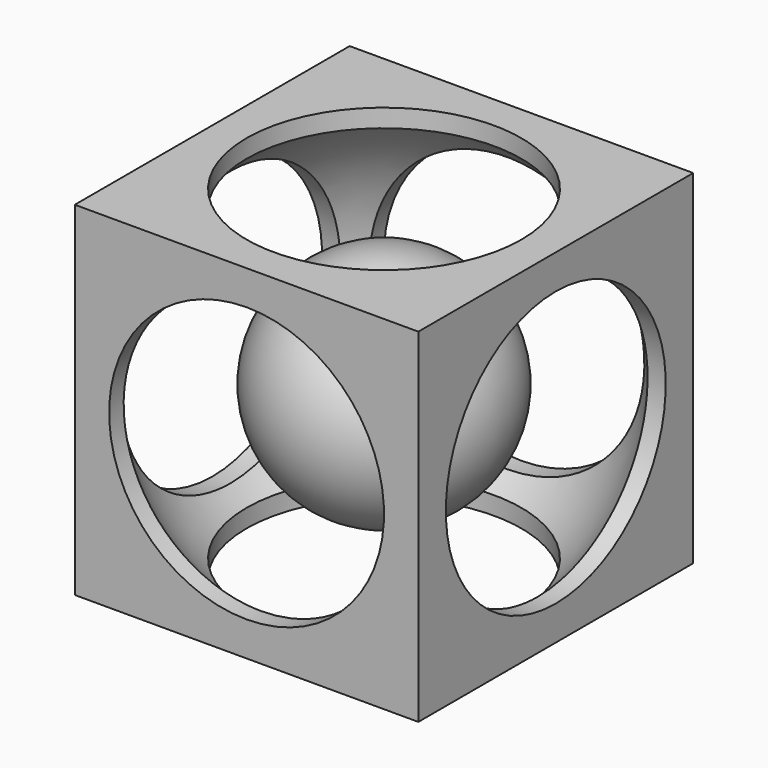
from build123d import *

# Parameters (mm, degrees)
CYLINDER001_R     = 12
CYLINDER001_DEPTH = 36
CYLINDER002_R     = 12
CYLINDER002_DEPTH = 36
CYLINDER_R        = 12
CYLINDER_DEPTH    = 36
BOX_W             = 30
BOX_H             = 30
BOX_DEPTH         = 30


with BuildPart() as obj1:
    # Sphere → Sphere (revolve)
    with BuildSketch(Plane(origin=(15, 15, 15), x_dir=(1, 0, 0), z_dir=(0, -1, 0))):
        with BuildLine():
            ThreePointArc((0, -18), (18, 0), (0, 18))
            Line((0, 18), (0, -18))
        make_face()
    revolve(axis=Axis((15, 15, 15), (0, 0, 1)))


with BuildPart() as cylinder001:
    # Cylinder001 → Cylinder001 (new body)
    with BuildSketch(Plane(origin=(15, 33, 15), x_dir=(0, 0, -1), z_dir=(0, -1, 0))):
        Circle(CYLINDER001_R)
    extrude(amount=CYLINDER001_DEPTH)


with BuildPart() as cylinder002:
    # Cylinder002 → Cylinder002 (new body)
    with BuildSketch(Plane(origin=(15, 15, 33), x_dir=(1, 0, 0), z_dir=(0, 0, -1))):
        Circle(CYLINDER002_R)
    extrude(amount=CYLINDER002_DEPTH)


with BuildPart() as obj2:
    # Cylinder → Cylinder (new body)
    with BuildSketch(Plane(origin=(-3, 15, 15), x_dir=(0, 0, -1), z_dir=(1, 0, 0))):
        Circle(CYLINDER_R)
    extrude(amount=CYLINDER_DEPTH)

    # Fusion: union Cylinder001, Cylinder002
    add(cylinder001.part)
    add(cylinder002.part)


with BuildPart() as obj3:
    # Box → Box (new body)
    with BuildSketch(Plane.XY):
        with Locations((15, 15)):
            Rectangle(BOX_W, BOX_H)
    extrude(amount=BOX_DEPTH)

    # Cut: cut obj2
    add(obj2.part, mode=Mode.SUBTRACT)

    # Cut001: cut obj1
    add(obj1.part, mode=Mode.SUBTRACT)


with BuildPart() as esfera_interior:
    # Sphere001 → Sphere001 (revolve)
    with BuildSketch(Plane(origin=(15, 15, 15), x_dir=(1, 0, 0), z_dir=(0, -1, 0))):
        with BuildLine():
            ThreePointArc((0, -10), (10, 0), (0, 10))
            Line((0, 10), (0, -10))
        make_face()
    revolve(axis=Axis((15, 15, 15), (0, 0, 1)))


solid = Compound([obj3.part, esfera_interior.part])
